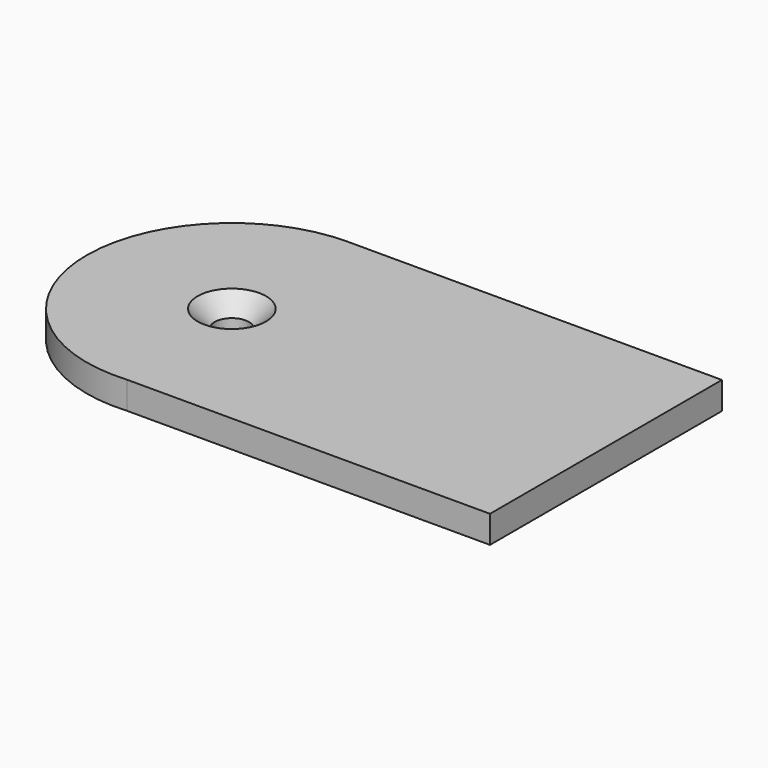
from build123d import *

# Parameters (mm, degrees)
F1_DEPTH       = 5.08
F3_D           = 6.35
F3_CSINK_D     = 12.7
F3_CSINK_ANGLE = 90


with BuildPart() as f1:
    # F0 (on Top) → F1 (new body)
    with BuildSketch(Plane.XY):
        with BuildLine():
            ThreePointArc((2.0111581622, -26.8418043852), (19.731467902, -18.3083695134), (26.9170432961, 0))
            ThreePointArc((26.9170432961, 0), (19.0332238442, 19.0332238442), (0, 26.9170432961))
            Line((0, 26.9170432961), (0, -26.8418043852))
            Line((0, -26.8418043852), (2.0111581622, -26.8418043852))
        make_face()
        with BuildLine():
            ThreePointArc((0, 26.9170432961), (19.0332238442, 19.0332238442), (26.9170432961, 0))
            ThreePointArc((26.9170432961, 0), (19.731467902, -18.3083695134), (2.0111581622, -26.8418043852))
            Line((2.0111581622, -26.8418043852), (69.3475157022, -26.8418043852))
            Line((69.3475157022, -26.8418043852), (69.3475157022, 26.9170432961))
            Line((69.3475157022, 26.9170432961), (0, 26.9170432961))
        make_face()
        with BuildLine():
            Line((0, -26.8418043852), (0, 26.9170432961))
            ThreePointArc((0, 26.9170432961), (-26.8982269916, -1.0062825209), (2.0111581622, -26.8418043852))
            Line((2.0111581622, -26.8418043852), (0, -26.8418043852))
        make_face()
    extrude(amount=F1_DEPTH)

    # F3 (through all)
    with Locations(Plane.XY.offset(5.08)):
        with Locations((0, 0)):
            CounterSinkHole(F3_D / 2, F3_CSINK_D / 2, counter_sink_angle=F3_CSINK_ANGLE)


solid = f1.part
